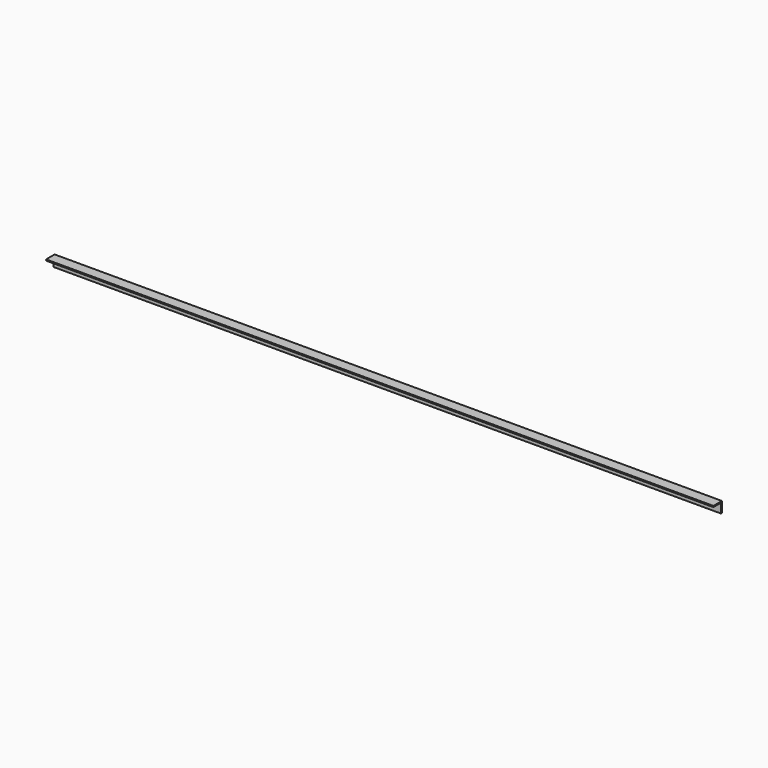
from build123d import *

# Parameters (mm, degrees)
F1_DEPTH = 468
F2_ANGLE = 180
F3_ANGLE = 90


with BuildPart() as f1:
    # F0 (on Front) → F1 (new body, symmetric)
    with BuildSketch(Plane.XZ):
        Polygon((-19.4449553564, 13.8652742597), (-21.0449553564, 13.8951456954), (-21.0449553564, -1.1048543046), (-6.0449553564, -1.1048543046), (-6.0449553564, 0.4951456954), (-19.4449553564, 0.4951456954), align=None)
    extrude(amount=F1_DEPTH, both=True)


with BuildPart() as f1_1:
    # F2: moved
    add(f1.part.rotate(Axis((-21.0449553564, 0, -1.1048543046), (0, -1, 0)), F2_ANGLE))


with BuildPart() as f1_2:
    # F3: moved
    add(f1_1.part.rotate(Axis((-21.0449553564, -468, -8.6048543046), (0, 0, 1)), F3_ANGLE))


solid = f1_2.part
